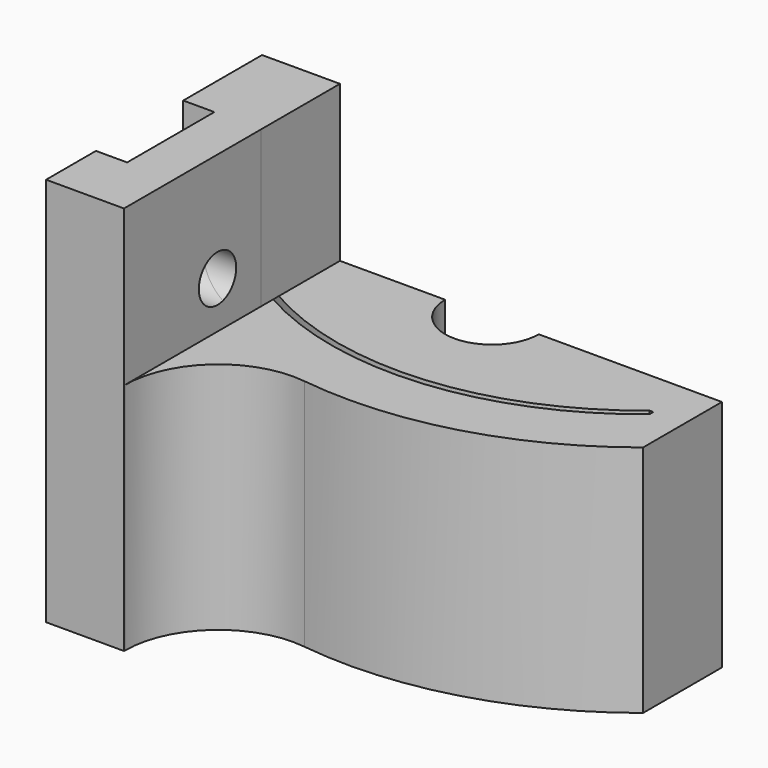
from build123d import *

# Parameters (mm, degrees)
F0_W      = 25
F0_H      = 3
F1_DEPTH  = 25
F3_DEPTH  = 25
F6_DEPTH  = 25
F7_W      = 11
F7_H      = 25
F8_DEPTH  = 5
F9_R      = 1.5
F10_DEPTH = 39.8
F11_R     = 2.5
F11_R_2   = 1.5
F12_DEPTH = 25
F15_DEPTH = 2
F16_W     = 40.865073
F16_H     = 21.960472
F17_DEPTH = 10
F18_R     = 6
F19_W     = 5.361306
F19_H     = 10
F19_W_2   = 0.960592
F20_DEPTH = 5


with BuildPart() as f1:
    # F0 (on Top) → F1 (new body)
    with BuildSketch(Plane.XY):
        with Locations((12.5, 1.5)):
            Rectangle(F0_W, F0_H)
        with BuildLine():
            Line((25, 0), (0, 0))
            ThreePointArc((0, 0), (12.5, -4.5), (25, 0))
        make_face()
    extrude(amount=F1_DEPTH)


with BuildPart() as f3:
    # F2 (on face) → F3 (new body)
    with BuildSketch(Plane.XY.offset(25)):
        Polygon((-2.254958, -0.308215), (-0.254958, -0.308215), (-0.254958, 0), (0, 0), (0, 3), (-2.254958, 3), align=None)
        with BuildLine():
            ThreePointArc((25.254958, -0.308215), (12.5, -4.9), (-0.254958, -0.308215))
            Line((-0.254958, -0.308215), (-2.254958, -0.308215))
            Line((-2.254958, -0.308215), (-2.254958, -3.321898))
            ThreePointArc((-2.254958, -3.321898), (12.5, -8.5), (27.254958, -3.321898))
            Line((27.254958, -3.321898), (27.254958, -0.308215))
            Line((27.254958, -0.308215), (25.254958, -0.308215))
        make_face()
        Polygon((25.254958, 0), (25.254958, -0.308215), (27.254958, -0.308215), (27.254958, 3), (25, 3), (25, 0), align=None)
    extrude(amount=-F3_DEPTH)

    # F4: union F1
    add(f1.part)

    # F5 (on face) → F6 (cut)
    with BuildSketch(Plane(origin=(0, 0, 0), x_dir=(1, 0, 0), z_dir=(0, 0, -1))):
        with BuildLine():
            Line((12.5, 0), (12.5, -3))
            Line((12.5, -3), (15.5, -3))
            ThreePointArc((15.5, -3), (14.62132, -0.87868), (12.5, 0))
        make_face()
        with BuildLine():
            Line((9.5, -3), (12.5, -3))
            Line((12.5, -3), (12.5, 0))
            ThreePointArc((12.5, 0), (10.37868, -0.87868), (9.5, -3))
        make_face()
    extrude(amount=-F6_DEPTH, mode=Mode.SUBTRACT)


with BuildPart() as f8:
    # F7 (on face) → F8 (new body)
    with BuildSketch(Plane(origin=(-2.254958, 0, 0), x_dir=(0, -1, 0), z_dir=(-1, 0, 0))):
        with Locations((8.821898, 12.5)):
            Rectangle(F7_W, F7_H)
    extrude(amount=-F8_DEPTH)


with BuildPart() as f10_tool:
    # F9 (on face) → F10 (new body)
    with BuildSketch(Plane(origin=(-2.254958, 0, 0), x_dir=(0, -1, 0), z_dir=(-1, 0, 0))):
        with Locations((6.821898, 18)):
            Circle(F9_R)
    extrude(amount=-F10_DEPTH)


with BuildPart() as f3_1:
    add(f3.part)

    # F10: cut by f10_tool
    add(f10_tool.part, mode=Mode.SUBTRACT)

    # F11 (on face) → F12 (cut)
    with BuildSketch(Plane.YZ.offset(2.745042)):
        with Locations((-6.821898, 18)):
            Circle(F11_R)
        with Locations((-6.821898, 18)):
            Circle(F11_R_2, mode=Mode.SUBTRACT)
    extrude(amount=F12_DEPTH, mode=Mode.SUBTRACT)


with BuildPart() as f8_1:
    add(f8.part)

    # F10: cut by f10_tool
    add(f10_tool.part, mode=Mode.SUBTRACT)


with BuildPart() as f3_2:
    add(f3_1.part)

    # F13: union F8
    add(f8_1.part)

    # F14 (on face) → F15 (cut)
    with BuildSketch(Plane(origin=(-2.254958, 0, 0), x_dir=(0, -1, 0), z_dir=(-1, 0, 0))):
        with BuildLine():
            ThreePointArc((8.321898, 18), (6.821898, 16.5), (5.321898, 18))
            Line((5.321898, 18), (3.321898, 18))
            Line((3.321898, 18), (3.321898, 11))
            Line((3.321898, 11), (10.321898, 11))
            Line((10.321898, 11), (10.321898, 18))
            Line((10.321898, 18), (8.321898, 18))
        make_face()
        with BuildLine():
            Line((3.321898, 18), (5.321898, 18))
            ThreePointArc((5.321898, 18), (6.821898, 19.5), (8.321898, 18))
            Line((8.321898, 18), (10.321898, 18))
            Line((10.321898, 18), (10.321898, 25))
            Line((10.321898, 25), (3.321898, 25))
            Line((3.321898, 25), (3.321898, 18))
        make_face()
    extrude(amount=-F15_DEPTH, mode=Mode.SUBTRACT)

    # F16 (on face) → F17 (cut)
    with BuildSketch(Plane.XY.offset(25)):
        with Locations((23.177578, -3.341662)):
            Rectangle(F16_W, F16_H)
        with Locations((23.177578, -3.341662)):
            Rectangle(F16_W, F16_H)
    extrude(amount=-F17_DEPTH, mode=Mode.SUBTRACT)

    # F18
    f18_edges = [f3_2.edges().sort_by_distance(p)[0] for p in [
        (2.745042, -6.390642, 7.5),
    ]]
    fillet(f18_edges, radius=F18_R)

    # F19 (on face) → F20 (join, through all)
    with BuildSketch(Plane.YZ.offset(2.745042)):
        with Locations((0.319347, 20)):
            Rectangle(F19_W, F19_H)
        with Locations((-2.841602, 20)):
            Rectangle(F19_W_2, F19_H)
    extrude(amount=-F20_DEPTH)


solid = f3_2.part
